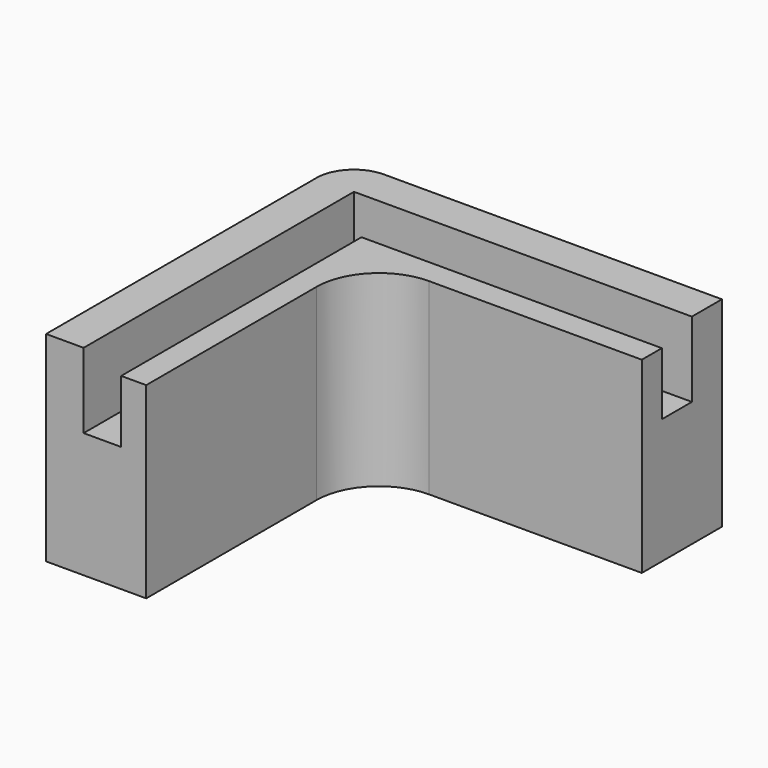
from build123d import *

# Parameters (mm, degrees)
F1_DEPTH = 10
F2_DEPTH = 6
F3_DEPTH = 5
F4_R     = 5
F5_R     = 3


with BuildPart() as f1:
    # F0 (on Top) → F1 (new body)
    with BuildSketch(Plane.XY):
        Polygon((-12, -12), (-12, 12), (12, 12), (12, 15), (-15, 15), (-15, -12), align=None)
        Polygon((12, 12), (-12, 12), (-12, -12), (-10, -12), (-10, 10), (12, 10), align=None)
        Polygon((-15, 15), (12, 15), (12, 18), (-18, 18), (-18, -12), (-15, -12), align=None)
    extrude(amount=-F1_DEPTH)

    # F0 (on Top) → F2 (join)
    with BuildSketch(Plane.XY):
        Polygon((-15, 15), (12, 15), (12, 18), (-18, 18), (-18, -12), (-15, -12), align=None)
    extrude(amount=F2_DEPTH)

    # F0 (on Top) → F3 (join)
    with BuildSketch(Plane.XY):
        Polygon((12, 12), (-12, 12), (-12, -12), (-10, -12), (-10, 10), (12, 10), align=None)
    extrude(amount=F3_DEPTH)

    # F4
    f4_edges = [f1.edges().sort_by_distance(p)[0] for p in [
        (-10, 10, -2.5),
    ]]
    fillet(f4_edges, radius=F4_R)

    # F5
    f5_edges = [f1.edges().sort_by_distance(p)[0] for p in [
        (-18, 18, -2),
    ]]
    fillet(f5_edges, radius=F5_R)


solid = f1.part
